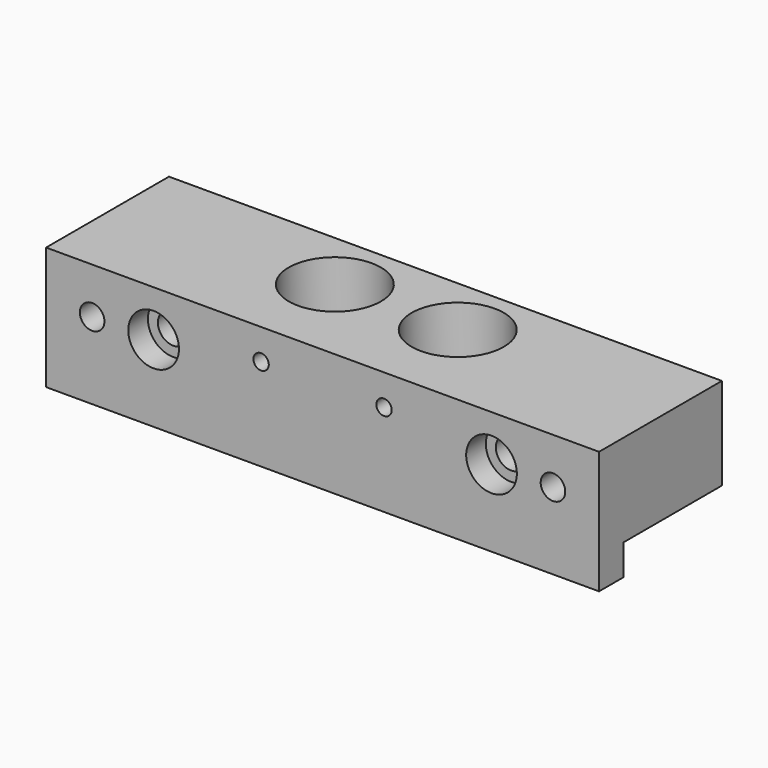
from build123d import *

# Parameters (mm, degrees)
F1_DEPTH       = 45
F2_R           = 2
F3_DEPTH       = 25.001
F4_D           = 5
F4_CBORE_D     = 8.25
F4_CBORE_DEPTH = 4
F5_R           = 3.5
F5_R_2         = 4.5
F6_DEPTH       = 20.001
F5_R_3         = 7.5
F7_DEPTH       = 10
F9_D           = 2.5
F9_DEPTH       = 12.4
F9_TIP         = 0.7510757738


with BuildPart() as f1:
    # F0 (on Right) → F1 (new body, symmetric)
    with BuildSketch(Plane.YZ):
        Polygon((-25, 20), (-25, 0), (-20, 0), (-20, 5), (0, 5), (0, 20), align=None)
    extrude(amount=F1_DEPTH, both=True)

    # F2 (on face) → F3 (cut, through all)
    with BuildSketch(Plane.XZ.offset(25)):
        with Locations((-37.5, 12.5)):
            Circle(F2_R)
        with Locations((37.5, 12.5)):
            Circle(F2_R)
    extrude(amount=-F3_DEPTH, mode=Mode.SUBTRACT)

    # F4 (through all)
    with Locations(Plane.XZ.offset(25)):
        with Locations((-27.5, 12.5), (27.5, 12.5)):
            CounterBoreHole(F4_D / 2, F4_CBORE_D / 2, F4_CBORE_DEPTH)

    # F5 (on face) → F6 (cut, through all)
    with BuildSketch(Plane.XY.offset(20)):
        with Locations((-10, -10)):
            Circle(F5_R)
        with Locations((10, -10)):
            Circle(F5_R_2)
    extrude(amount=-F6_DEPTH, mode=Mode.SUBTRACT)

    # F5 (on face) → F7 (cut)
    with BuildSketch(Plane.XY.offset(20)):
        with Locations((-10, -10)):
            Circle(F5_R_3)
        with Locations((-10, -10)):
            Circle(F5_R, mode=Mode.SUBTRACT)
        with Locations((10, -10)):
            Circle(F5_R_3)
        with Locations((10, -10)):
            Circle(F5_R_2, mode=Mode.SUBTRACT)
    extrude(amount=-F7_DEPTH, mode=Mode.SUBTRACT)

    # F9
    with Locations(Plane.XZ.offset(25)):
        with Locations((-10, 15), (10, 15)):
            Hole(F9_D / 2, depth=F9_DEPTH)
            with Locations((0, 0, -(F9_DEPTH + F9_TIP / 2))):  # 118° drill point
                Cone(0, F9_D / 2, F9_TIP, mode=Mode.SUBTRACT)


solid = f1.part
